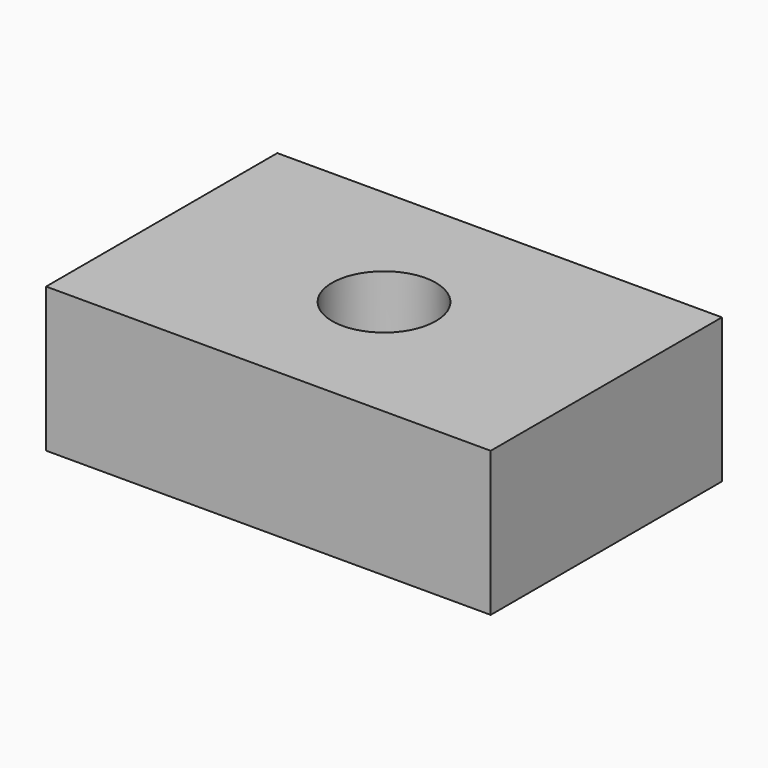
from build123d import *

# Parameters (mm, degrees)
F1_R     = 1.4
F2_DEPTH = 3.9


with BuildPart() as f2:
    # F1 (on Top) → F2 (new body)
    with BuildSketch(Plane.XY):
        Polygon((-6, 3.9), (-6, 0), (-6, -3.9), (0, -3.9), (6, -3.9), (6, 0), (6, 3.9), (0, 3.9), align=None)
        Circle(F1_R, mode=Mode.SUBTRACT)
    extrude(amount=F2_DEPTH)


solid = f2.part
